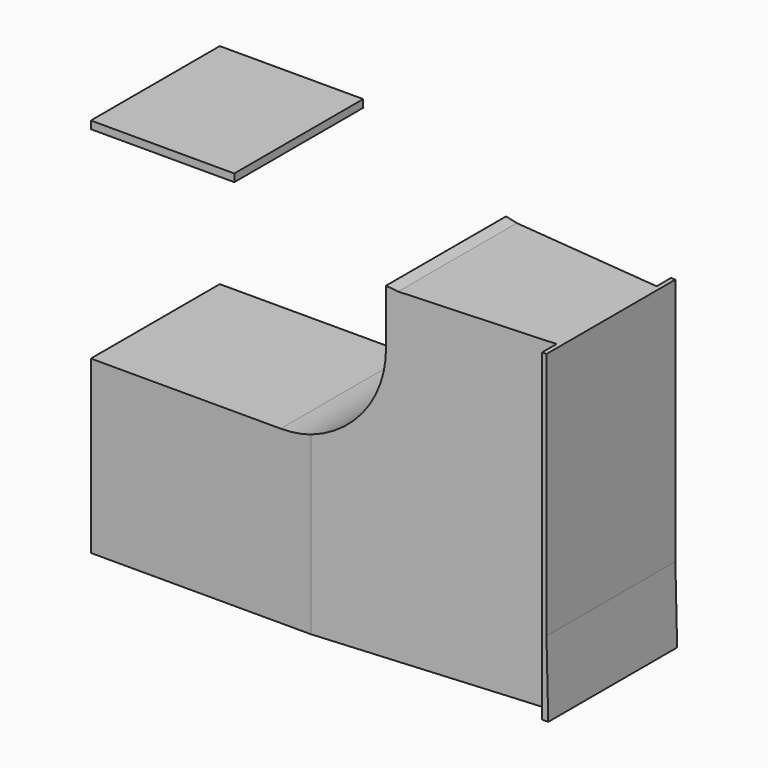
from build123d import *

# Parameters (mm, degrees)
F2_DEPTH = 4.35
F4_DEPTH = 13.75
F5_DEPTH = 10.5


with BuildPart() as f2:
    # F0 (on Front) → F2 (new body, symmetric)
    with BuildSketch(Plane.XZ):
        Polygon((-31.3346489608, -4.0566790849), (-31.4301803052, 0), (-31.4301803052, 13.4), (-39.7141215026, 13.5333097816), (-48.2708952457, 14.8973720267), (-48.2867128074, 16.5), (-56.0301803052, 16.5), (-56.0301803052, 0), (-56.0301803052, -4.0566790849), align=None)
    extrude(amount=F2_DEPTH, both=True)


with BuildPart() as f2b:
    # F1 (on Front) → F2, piece 2 (new body, symmetric)
    with BuildSketch(Plane.XZ):
        with BuildLine():
            Line((-45.7834748578, 16.0856869832), (-56.2834748578, 16.0856869832))
            Line((-56.2834748578, 16.0856869832), (-56.2834748578, 5.1856869832))
            Line((-56.2834748578, 5.1856869832), (-45.7834748578, 5.1856869832))
            ThreePointArc((-45.7834748578, 5.1856869832), (-41.9297429004, 6.7819550257), (-40.3334748578, 10.6356869832))
            ThreePointArc((-40.3334748578, 10.6356869832), (-41.9297429004, 14.4894189406), (-45.7834748578, 16.0856869832))
        make_face()
        with BuildLine():
            Line((-40.3334748578, 16.0856869832), (-45.7834748578, 16.0856869832))
            ThreePointArc((-45.7834748578, 16.0856869832), (-41.9297429004, 14.4894189406), (-40.3334748578, 10.6356869832))
            Line((-40.3334748578, 10.6356869832), (-40.3334748578, 16.0856869832))
        make_face()
    extrude(amount=F2_DEPTH, both=True)


with BuildPart() as f4_tool:
    # F3 (on Top) → F4 (new body, symmetric)
    with BuildSketch(Plane.XY):
        Polygon((-31.664647162, -3.3765389722), (-45.2137924731, -4.4331237346), (-31.664647162, -4.4641996406), align=None)
        Polygon((-31.664647162, 4.4641996406), (-45.2137924731, 4.4331237346), (-31.664647162, 3.3765389722), align=None)
    extrude(amount=F4_DEPTH, both=True)


with BuildPart() as f2_1:
    add(f2.part)

    # F4: cut by f4_tool
    add(f4_tool.part, mode=Mode.SUBTRACT)


with BuildPart() as f2b_1:
    add(f2b.part)

    # F4: cut by f4_tool
    add(f4_tool.part, mode=Mode.SUBTRACT)


with BuildPart() as f5_tool:
    # F1 (on Front) → F5 (new body, symmetric)
    with BuildSketch(Plane.XZ):
        with BuildLine():
            Line((-45.7834748578, 16.0856869832), (-56.2834748578, 16.0856869832))
            Line((-56.2834748578, 16.0856869832), (-56.2834748578, 5.1856869832))
            Line((-56.2834748578, 5.1856869832), (-45.7834748578, 5.1856869832))
            ThreePointArc((-45.7834748578, 5.1856869832), (-41.9297429004, 6.7819550257), (-40.3334748578, 10.6356869832))
            ThreePointArc((-40.3334748578, 10.6356869832), (-41.9297429004, 14.4894189406), (-45.7834748578, 16.0856869832))
        make_face()
        with BuildLine():
            Line((-40.3334748578, 16.0856869832), (-45.7834748578, 16.0856869832))
            ThreePointArc((-45.7834748578, 16.0856869832), (-41.9297429004, 14.4894189406), (-40.3334748578, 10.6356869832))
            Line((-40.3334748578, 10.6356869832), (-40.3334748578, 16.0856869832))
        make_face()
    extrude(amount=F5_DEPTH, both=True)


with BuildPart() as f2_2:
    add(f2_1.part)

    # F5: cut by f5_tool
    add(f5_tool.part, mode=Mode.SUBTRACT)


with BuildPart() as f2b_2:
    add(f2b_1.part)

    # F5: cut by f5_tool
    add(f5_tool.part, mode=Mode.SUBTRACT)


solid = f2_2.part
